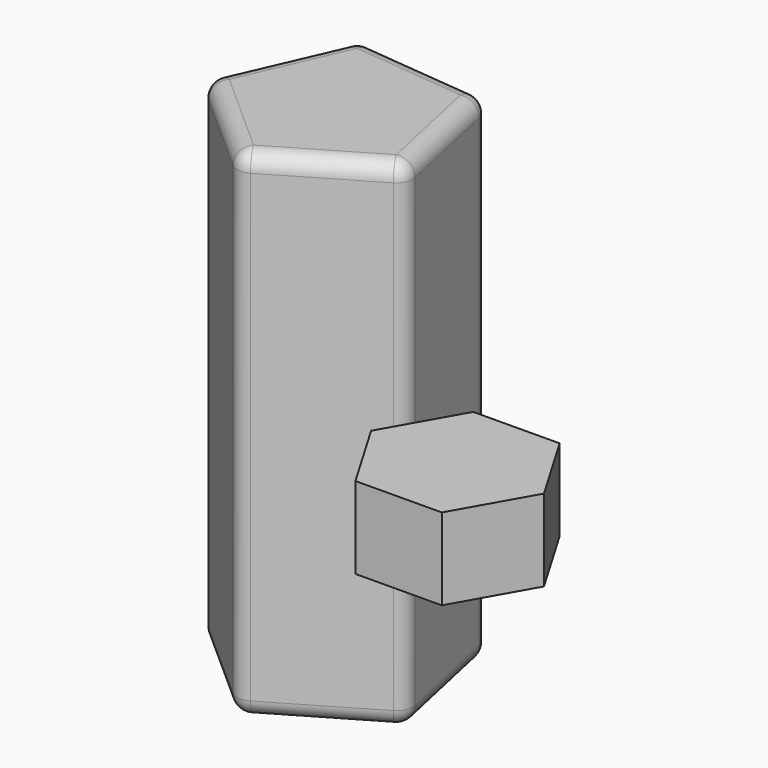
from build123d import *

# Parameters (mm, degrees)
F1_DEPTH      = 76.962
F1_DEPTH_BACK = 77.47
F2_R          = 5.08
F4_DEPTH      = 25.4
F5_DEPTH      = 25.4


with BuildPart() as f1:
    # F0 (on Top) → F1 (new body, two sides)
    with BuildSketch(Plane.XY) as f1_sk:
        Polygon((-42.091104, -28.56459), (-5.52844, -7.146423), (-14.599843, 34.245315), (-56.768942, 38.408649), (-73.759476, -0.410007), align=None)
    extrude(amount=F1_DEPTH)
    extrude(f1_sk.sketch, amount=-F1_DEPTH_BACK)

    # F2
    f2_edges = [f1.edges().sort_by_distance(p)[0] for p in [
        (-57.92529, -14.487299, 76.962),
        (-42.091104, -28.56459, -0.254),
        (-57.92529, -14.487299, -77.47),
        (-73.759476, -0.410007, -0.254),
        (-56.768942, 38.408649, -0.254),
        (-65.264209, 18.999321, 76.962),
        (-65.264209, 18.999321, -77.47),
        (-14.599843, 34.245315, -0.254),
        (-35.684392, 36.326982, 76.962),
        (-35.684392, 36.326982, -77.47),
        (-5.52844, -7.146423, -0.254),
        (-10.064141, 13.549446, 76.962),
        (-10.064141, 13.549446, -77.47),
        (-23.809772, -17.855506, 76.962),
        (-23.809772, -17.855506, -77.47),
    ]]
    fillet(f2_edges, radius=F2_R)


with BuildPart() as f4:
    # F3 (on Top) → F4 (new body)
    with BuildSketch(Plane.XY):
        Polygon((26.138879, -67.311302), (52.810986, -67.102656), (65.966346, -43.89961), (52.4496, -20.905211), (25.777493, -21.113858), (12.622132, -44.316903), align=None)
    extrude(amount=F4_DEPTH)

    # F3 (on Top) → F5 (join)
    with BuildSketch(Plane.XY):
        Polygon((26.138879, -67.311302), (52.810986, -67.102656), (65.966346, -43.89961), (52.4496, -20.905211), (25.777493, -21.113858), (12.622132, -44.316903), align=None)
    extrude(amount=F5_DEPTH)


solid = Compound([f1.part, f4.part])
